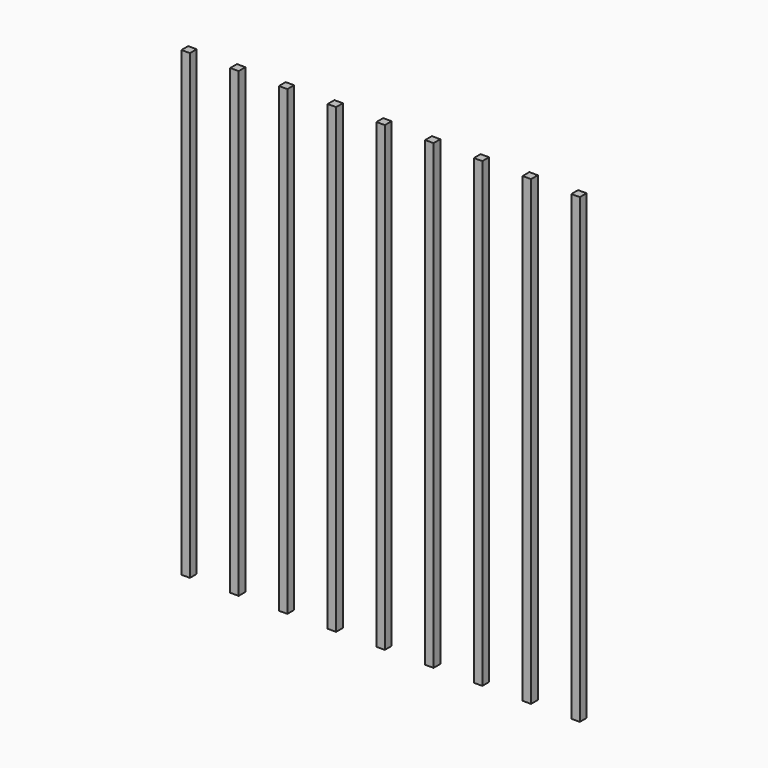
from build123d import *

# Parameters (mm, degrees)
F0_W     = 15
F0_H     = 820
F1_DEPTH = 15


with BuildPart() as f1:
    # F0 (on Front) → F1 (new body)
    with BuildSketch(Plane.XZ):
        with Locations((-60.871643, 1.92824)):
            Rectangle(F0_W, F0_H)
        with Locations((25.628357, 1.92824)):
            Rectangle(F0_W, F0_H)
        with Locations((112.128357, 1.92824)):
            Rectangle(F0_W, F0_H)
        with Locations((198.628357, 1.92824)):
            Rectangle(F0_W, F0_H)
        with Locations((285.128357, 1.92824)):
            Rectangle(F0_W, F0_H)
        with Locations((371.628357, 1.92824)):
            Rectangle(F0_W, F0_H)
        with Locations((458.128357, 1.92824)):
            Rectangle(F0_W, F0_H)
        with Locations((544.628357, 1.92824)):
            Rectangle(F0_W, F0_H)
        with Locations((631.128357, 1.92824)):
            Rectangle(F0_W, F0_H)
    extrude(amount=F1_DEPTH)


solid = f1.part
